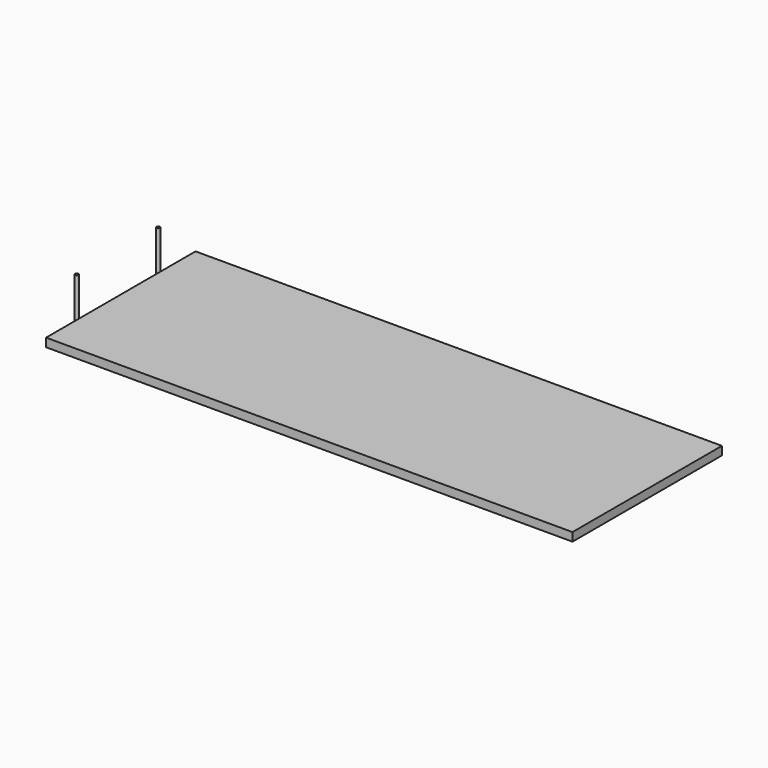
from build123d import *

# Parameters (mm, degrees)
SKETCH005_W  = 31
SKETCH005_H  = 11
PAD001_DEPTH = 0.5
SKETCH006_R  = 0.1


with BuildPart() as part:
    # Sketch005 → Pad001 (new body)
    with BuildSketch(Plane.XY):
        Rectangle(SKETCH005_W, SKETCH005_H)
    extrude(amount=PAD001_DEPTH)

    # AdditivePipe001: sweep along a path in Sketch008
    with BuildLine(Plane(origin=(-13.5, -3, 0), x_dir=(-1, 0, 0), z_dir=(0, 1, 0))) as additivepipe001_path:
        Line((0, 0), (2, 0))
        ThreePointArc((2, 0), (2.141421, 0.058579), (2.2, 0.2))
        Line((2.2, 0.2), (2.2, 2.7))
    # Sketch006 (on DatumPlane) → AdditivePipe001 (sweep)
    with BuildSketch(Plane(origin=(-13.5, 0, 0), x_dir=(0, -1, 0), z_dir=(-1, 0, 0))):
        with Locations((3, 0)):
            Circle(SKETCH006_R)
    additivepipe001 = sweep(path=additivepipe001_path.line)

    # Mirrored001: AdditivePipe001 across Sketch006 V_Axis
    add(additivepipe001.mirror(Plane(origin=(-13.5, 0, 0), x_dir=(-1, 0, 0), z_dir=(0, -1, 0))))


solid = part.part
